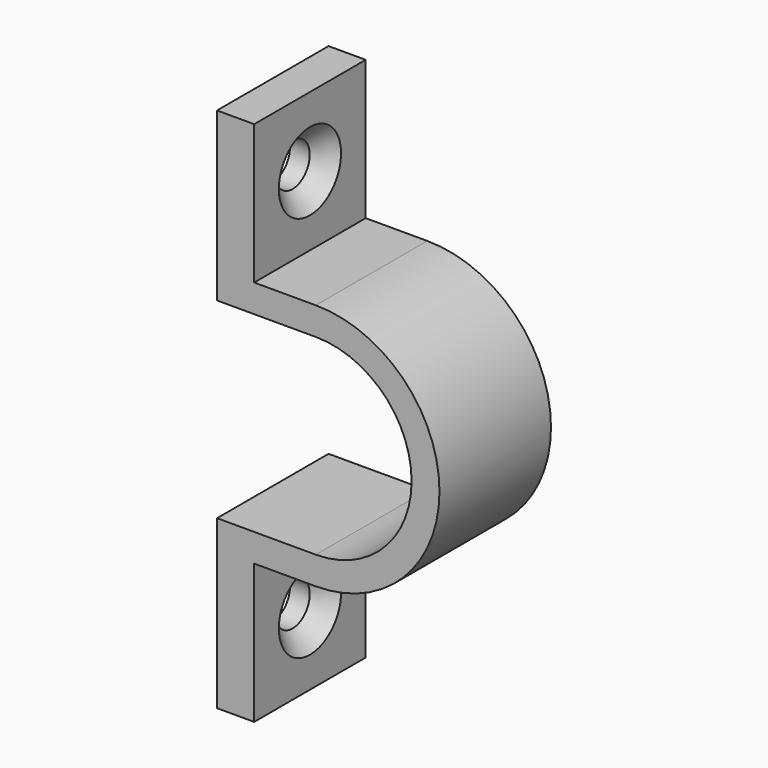
from build123d import *

# Parameters (mm, degrees)
F1_DEPTH = 12
F2_R     = 1.85
F3_DEPTH = 19.151
F4_SIZE  = 1.5


with BuildPart() as f1:
    # F0 (on Front) → F1 (new body)
    with BuildSketch(Plane.XZ):
        with BuildLine():
            Line((-35.8277369916, 41.9945976296), (-39.0277369916, 41.9945976296))
            Line((-39.0277369916, 41.9945976296), (-39.0277369916, 27.5945976296))
            Line((-39.0277369916, 27.5945976296), (-30.5277369916, 27.5945976296))
            ThreePointArc((-30.5277369916, 27.5945976296), (-22.2777369916, 19.3445976296), (-30.5277369916, 11.0945976296))
            Line((-30.5277369916, 11.0945976296), (-39.0277369916, 11.0945976296))
            Line((-39.0277369916, 11.0945976296), (-39.0277369916, -3.3054023704))
            Line((-39.0277369916, -3.3054023704), (-35.8277369916, -3.3054023704))
            Line((-35.8277369916, -3.3054023704), (-35.8277369916, 8.6945976296))
            Line((-35.8277369916, 8.6945976296), (-30.5277369916, 8.6945976296))
            ThreePointArc((-30.5277369916, 8.6945976296), (-19.8777369916, 19.3445976296), (-30.5277369916, 29.9945976296))
            Line((-30.5277369916, 29.9945976296), (-35.8277369916, 29.9945976296))
            Line((-35.8277369916, 29.9945976296), (-35.8277369916, 41.9945976296))
        make_face()
    extrude(amount=F1_DEPTH)

    # F2 (on face) → F3 (cut, through all)
    with BuildSketch(Plane(origin=(-39.0277369916, 0, 0), x_dir=(0, -1, 0), z_dir=(-1, 0, 0))):
        with Locations((6, 35.9945976296)):
            Circle(F2_R)
        with Locations((6, 2.6945976296)):
            Circle(F2_R)
    extrude(amount=-F3_DEPTH, mode=Mode.SUBTRACT)

    # F4
    f4_edges = [f1.edges().sort_by_distance(p)[0] for p in [
        (-35.827737, -4.15, 35.994598),
        (-35.827737, -4.15, 2.694598),
    ]]
    chamfer(f4_edges, length=F4_SIZE)


solid = f1.part
